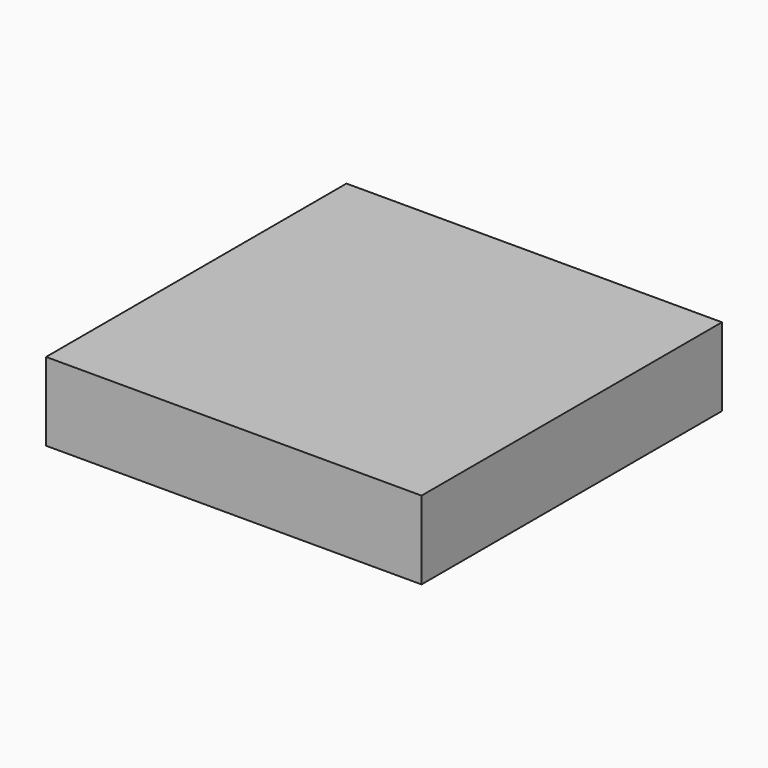
from build123d import *

# Parameters (mm, degrees)
SKETCH_W  = 120
SKETCH_H  = 120
PAD_DEPTH = 25


with BuildPart() as part:
    # Sketch → Pad (new body)
    with BuildSketch(Plane.XY):
        with Locations((60, 60)):
            Rectangle(SKETCH_W, SKETCH_H)
    extrude(amount=PAD_DEPTH)


solid = part.part
